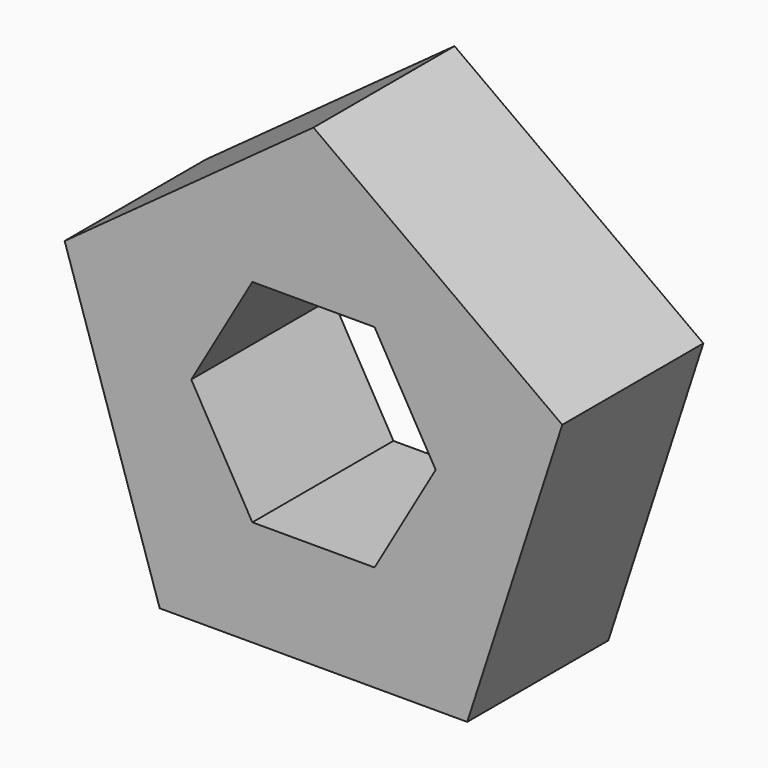
from build123d import *

# Parameters (mm, degrees)
F1_DEPTH = 25


with BuildPart() as f1:
    # F0 (on Front) → F1 (new body)
    with BuildSketch(Plane.XZ):
        Polygon((-21.796276, -30), (21.796276, -30), (35.267115, 11.45898), (0, 37.082039), (-35.267115, 11.45898), align=None)
        Polygon((-17.320508, 0), (-8.660254, 15), (8.660254, 15), (17.320508, 0), (8.660254, -15), (-8.660254, -15), align=None, mode=Mode.SUBTRACT)
    extrude(amount=F1_DEPTH)


solid = f1.part
